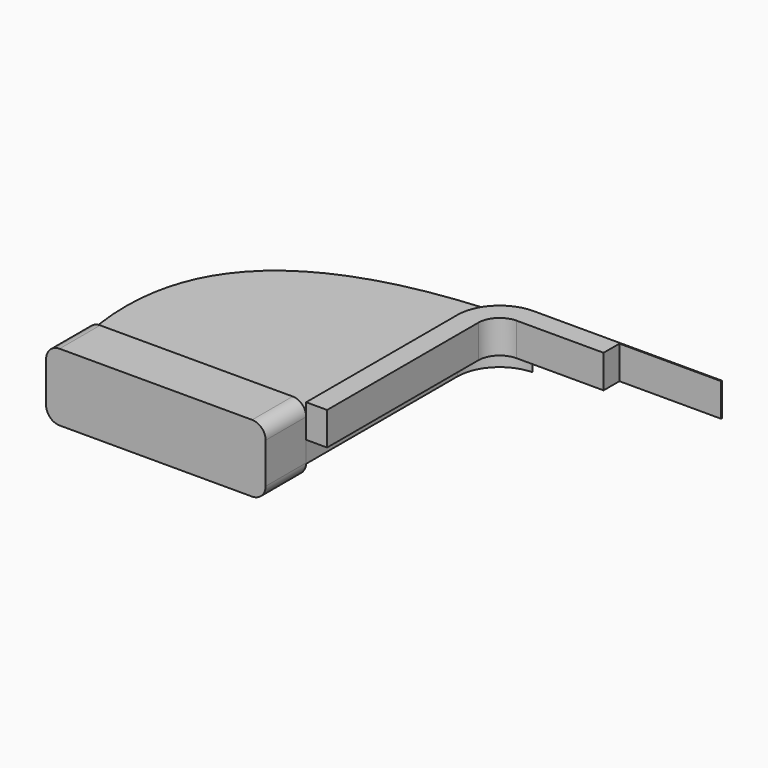
from build123d import *

# Parameters (mm, degrees)
F0_W     = 82.55
F0_H     = 19.05
F1_DEPTH = 12.7
F2_DEPTH = 12.446
F3_DEPTH = 7.9375
F4_R     = 5.08


with BuildPart() as f1:
    # F0 (on Top) → F1 (new body, symmetric)
    with BuildSketch(Plane.XY):
        Rectangle(F0_W, F0_H)
    extrude(amount=F1_DEPTH, both=True)

    # F4
    f4_edges = [f1.edges().sort_by_distance(p)[0] for p in [
        (41.275, 0, 12.7),
        (41.275, 0, -12.7),
        (-41.275, 0, 12.7),
        (-41.275, 0, -12.7),
    ]]
    fillet(f4_edges, radius=F4_R)


with BuildPart() as f2:
    # F0 (on Top) → F2 (new body)
    with BuildSketch(Plane.XY):
        with BuildLine():
            Line((41.275, 80.61068), (41.275, 9.525))
            Line((41.275, 9.525), (49.149, 9.525))
            Line((49.149, 9.525), (49.149, 80.61068))
            ThreePointArc((49.149, 80.61068), (51.492439, 86.268242), (57.15, 88.61168))
            Line((57.15, 88.61168), (89.824399, 88.61168))
            Line((89.824399, 88.61168), (89.824399, 96.067605))
            Line((89.824399, 96.067605), (128.01899, 96.067605))
            Line((128.01899, 96.067605), (128.01899, 96.48568))
            Line((128.01899, 96.48568), (57.15, 96.48568))
            add(Edge.make_bspline(
                [(56.736729, 96.4803), (56.874336, 96.48218), (57.012093, 96.483974), (57.15, 96.48568)],
                knots=[131.1126, 131.1126, 131.1126, 131.1126, 131.337887, 131.337887, 131.337887, 131.337887], degree=3))
            ThreePointArc((56.736729, 96.4803), (45.779505, 91.688924), (41.275, 80.61068))
        make_face()
    extrude(amount=F2_DEPTH)


with BuildPart() as f3:
    # F0 (on Top) → F3 (new body, symmetric)
    with BuildSketch(Plane.XY):
        with BuildLine():
            add(Edge.make_bspline(
                [(-41.275, 9.525), (-52.583382, 64.954376), (-23.347816, 95.386158), (56.736729, 96.4803)],
                knots=[0, 0, 0, 0, 131.1126, 131.1126, 131.1126, 131.1126], degree=3))
            Line((-41.275, 9.525), (41.275, 9.525))
            Line((41.275, 9.525), (41.275, 80.61068))
            ThreePointArc((41.275, 80.61068), (45.779505, 91.688924), (56.736729, 96.4803))
        make_face()
    extrude(amount=F3_DEPTH, both=True)


solid = Compound([f1.part, f2.part, f3.part])
